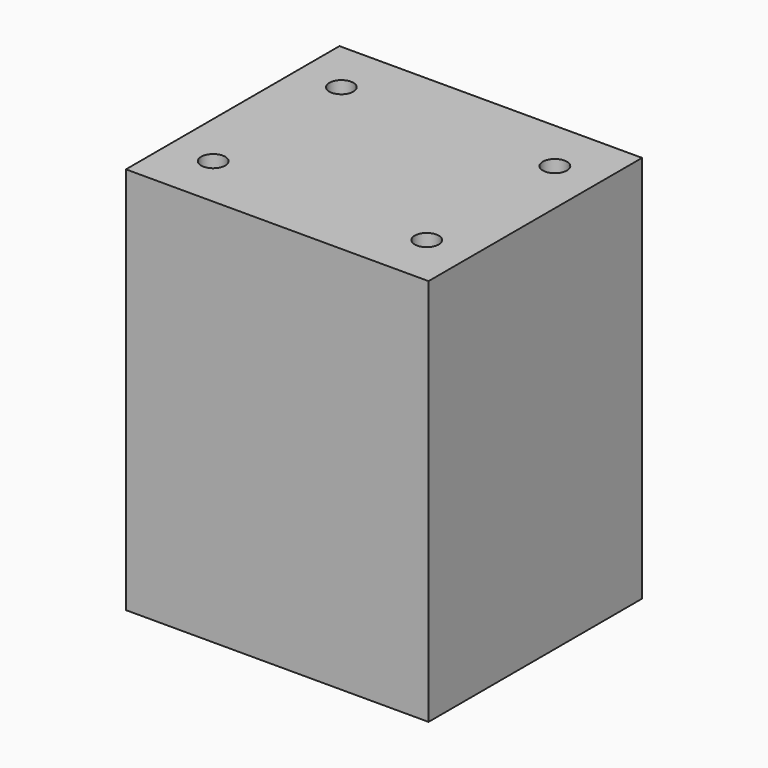
from build123d import *

# Parameters (mm, degrees)
F0_W           = 34.0106
F0_H           = 29.9974
F1_DEPTH       = 43.6118
F4_D           = 2.7051
F4_DEPTH       = 15.0876
F4_TIP         = 0.8126940303
F4_ON_F2_D     = 2.7051
F4_ON_F2_DEPTH = 15.0876
F4_ON_F2_TIP   = 0.8126940303


with BuildPart() as f1:
    # F0 (on Top) → F1 (new body)
    with BuildSketch(Plane.XY):
        with Locations((1.7151954423, -3.7325670248)):
            Rectangle(F0_W, F0_H)
    extrude(amount=-F1_DEPTH)

    # F4
    with Locations(Plane(origin=(0, 0, -43.6118), x_dir=(1, 0, 0), z_dir=(0, 0, -1))):
        with Locations((-10.2795045577, 12.7338670235), (13.7204954423, 12.7338670235), (13.7204954423, -5.2661329765), (-10.2795045577, -5.2661329765)):
            Hole(F4_D / 2, depth=F4_DEPTH)
            with Locations((0, 0, -(F4_DEPTH + F4_TIP / 2))):  # 118° drill point
                Cone(0, F4_D / 2, F4_TIP, mode=Mode.SUBTRACT)

    # F4 on F2
    with Locations(Plane.XY):
        with Locations((-10.2795045577, 5.2661329765), (13.7204954423, 5.2661329765), (13.7204954423, -12.7338670235), (-10.2795045577, -12.7338670235)):
            Hole(F4_ON_F2_D / 2, depth=F4_ON_F2_DEPTH)
            with Locations((0, 0, -(F4_ON_F2_DEPTH + F4_ON_F2_TIP / 2))):  # 118° drill point
                Cone(0, F4_ON_F2_D / 2, F4_ON_F2_TIP, mode=Mode.SUBTRACT)


solid = f1.part
